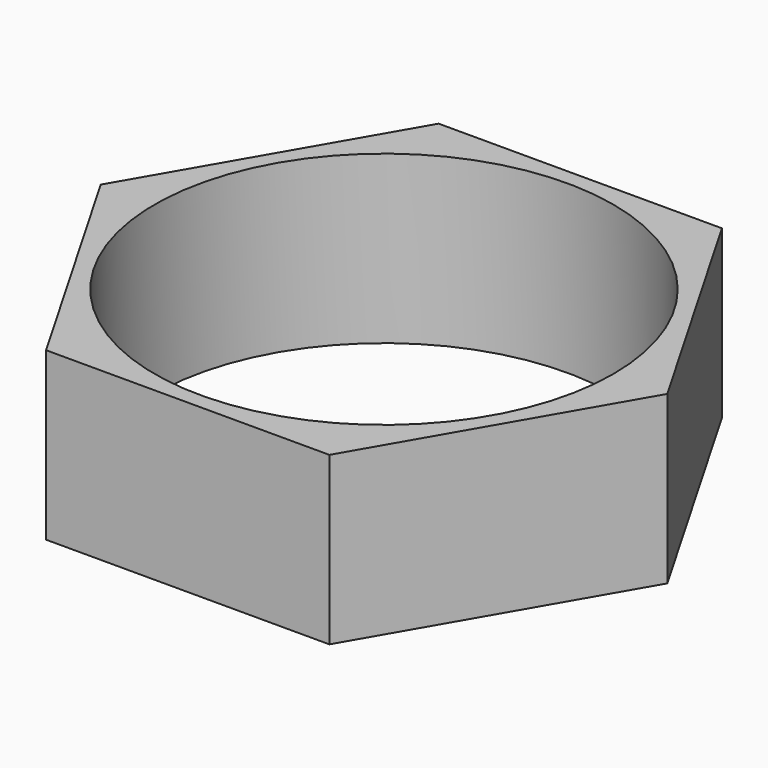
from build123d import *

# Parameters (mm, degrees)
F1_DEPTH = 11.9
F2_R     = 16.361842
F3_DEPTH = 11.901


with BuildPart() as f1:
    # F0 (on Top) → F1 (new body)
    with BuildSketch(Plane.XY):
        Polygon((10.10363, -17.5), (20.207259, 0), (10.10363, 17.5), (-10.10363, 17.5), (-20.207259, 0), (-10.10363, -17.5), align=None)
    extrude(amount=F1_DEPTH)

    # F2 (on face) → F3 (cut, through all)
    with BuildSketch(Plane.XY.offset(11.9)):
        Circle(F2_R)
    extrude(amount=-F3_DEPTH, mode=Mode.SUBTRACT)


solid = f1.part
